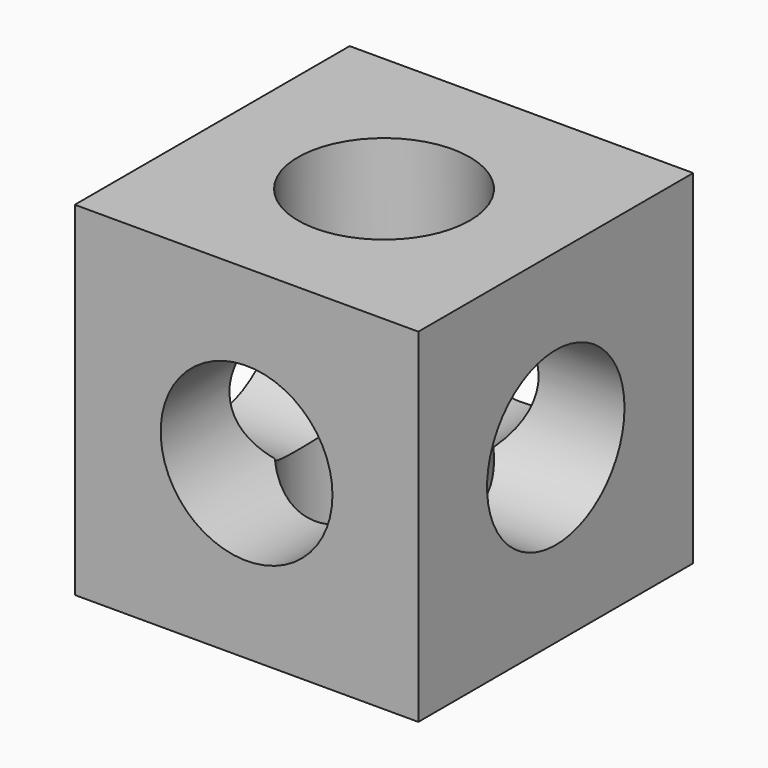
from build123d import *

# Parameters (mm, degrees)
F0_W     = 4
F0_H     = 4
F1_DEPTH = 4
F2_R     = 1
F4_DEPTH = 25
F5_R     = 1
F6_DEPTH = 25
F7_R     = 1
F8_DEPTH = 25


with BuildPart() as f1:
    # F0 (on Top) → F1 (new body)
    with BuildSketch(Plane.XY):
        with Locations((2, 2)):
            Rectangle(F0_W, F0_H)
    extrude(amount=F1_DEPTH)

    # F2 (on face) → F4 (cut)
    with BuildSketch(Plane.XY.offset(4)):
        with Locations((2, 2)):
            Circle(F2_R)
    extrude(amount=-F4_DEPTH, mode=Mode.SUBTRACT)

    # F5 (on face) → F6 (cut)
    with BuildSketch(Plane.XZ):
        with Locations((2, 2)):
            Circle(F5_R)
    extrude(amount=-F6_DEPTH, mode=Mode.SUBTRACT)

    # F7 (on face) → F8 (cut)
    with BuildSketch(Plane.YZ.offset(4)):
        with Locations((2, 2)):
            Circle(F7_R)
    extrude(amount=-F8_DEPTH, mode=Mode.SUBTRACT)


solid = f1.part
